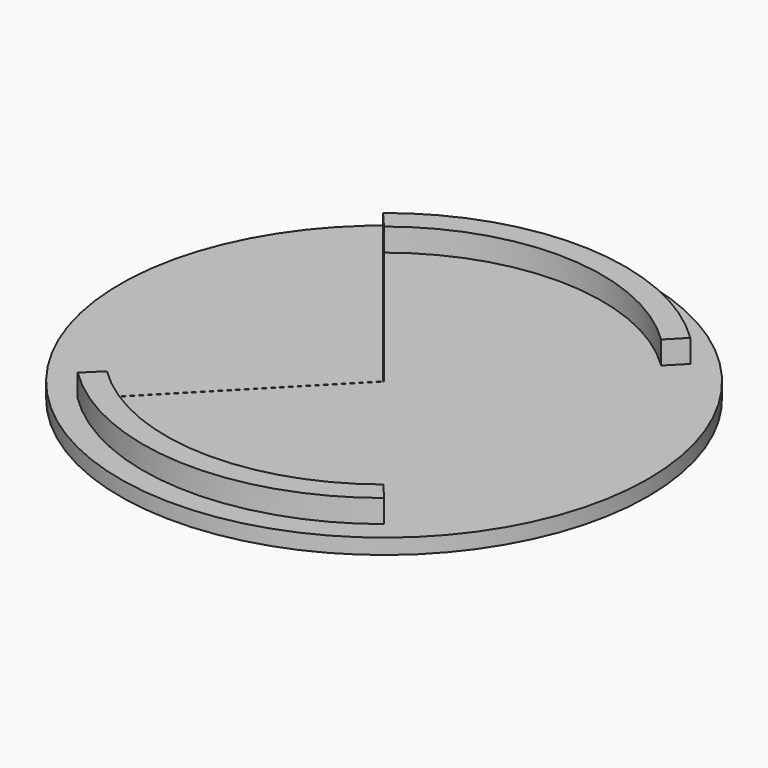
from build123d import *

# Parameters (mm, degrees)
F0_R     = 34.5
F1_DEPTH = 2
F2_DEPTH = 5


with BuildPart() as f1:
    # F0 (on Top) → F1 (new body)
    with BuildSketch(Plane.XY):
        Circle(F0_R)
        with BuildLine():
            ThreePointArc((21.9700469185, 22.573591615), (29.0198766187, 12.2513983297), (31.5, 0))
            ThreePointArc((31.5, 0), (28.3931659642, -13.6410456537), (19.685515776, -24.5912681379))
            ThreePointArc((19.685515776, -24.5912681379), (-1.5780097398, -31.46044954), (-22.0474442238, -22.498004427))
            ThreePointArc((-22.0474442238, -22.498004427), (-31.4627762399, 1.5309184432), (-19.7590431706, 24.5322280477))
            ThreePointArc((-19.7590431706, 24.5322280477), (1.4768881346, 31.4653587527), (21.9700469185, 22.573591615))
        make_face(mode=Mode.SUBTRACT)
        with BuildLine():
            Line((-17.8842235523, 22.1901903537), (-19.7590431706, 24.5322280477))
            ThreePointArc((-19.7590431706, 24.5322280477), (-31.4627762399, 1.5309184432), (-22.0474442238, -22.498004427))
            Line((-22.0474442238, -22.498004427), (-19.9513667108, -20.3517312868))
            ThreePointArc((-19.9513667108, -20.3517312868), (-28.466414366, 1.3832039418), (-17.8842235523, 22.1901903537))
        make_face()
        with BuildLine():
            Line((-19.9513667108, -20.3517312868), (-0.1004441037, -0.0254305007))
            Line((-0.1004441037, -0.0254305007), (-17.8842235523, 22.1901903537))
            ThreePointArc((-17.8842235523, 22.1901903537), (-28.466414366, 1.3832039418), (-19.9513667108, -20.3517312868))
        make_face()
        with BuildLine():
            Line((-17.8106981504, 22.2492478838), (-0.0340579507, 0.0425454287))
            Line((-0.0340579507, 0.0425454287), (19.8739694055, 20.4273184747))
            ThreePointArc((19.8739694055, 20.4273184747), (1.3762735051, 28.4667502753), (-17.8106981504, 22.2492478838))
        make_face()
        with BuildLine():
            Line((-0.0340579507, 0.0425454287), (0, 0))
            Line((0, 0), (28.5, 0))
            ThreePointArc((28.5, 0), (26.2550769191, 11.0869714517), (19.8739694055, 20.4273184747))
            Line((19.8739694055, 20.4273184747), (-0.0340579507, 0.0425454287))
        make_face()
        with BuildLine():
            Line((28.5, 0), (0, 0))
            Line((0, 0), (-0.066386153, -0.0679759294))
            Line((-0.066386153, -0.0679759294), (17.7369777294, -22.3080617945))
            ThreePointArc((17.7369777294, -22.3080617945), (25.6685981823, -12.3843880493), (28.5, 0))
        make_face()
        with BuildLine():
            Line((17.7369777294, -22.3080617945), (-0.066386153, -0.0679759294))
            Line((-0.066386153, -0.0679759294), (-19.9127039236, -20.3895616051))
            ThreePointArc((-19.9127039236, -20.3895616051), (-1.4503816264, -28.4630706906), (17.7369777294, -22.3080617945))
        make_face()
        with BuildLine():
            Line((31.5, 0), (28.5, 0))
            ThreePointArc((28.5, 0), (25.6685981823, -12.3843880493), (17.7369777294, -22.3080617945))
            Line((17.7369777294, -22.3080617945), (19.685515776, -24.5912681379))
            ThreePointArc((19.685515776, -24.5912681379), (28.3931659642, -13.6410456537), (31.5, 0))
        make_face()
        with BuildLine():
            ThreePointArc((19.8739694055, 20.4273184747), (26.2550769191, 11.0869714517), (28.5, 0))
            Line((28.5, 0), (31.5, 0))
            ThreePointArc((31.5, 0), (29.0198766187, 12.2513983297), (21.9700469185, 22.573591615))
            Line((21.9700469185, 22.573591615), (19.8739694055, 20.4273184747))
        make_face()
    extrude(amount=F1_DEPTH)

    # F0 (on Top) → F2 (join)
    with BuildSketch(Plane.XY):
        with BuildLine():
            ThreePointArc((-17.8106981504, 22.2492478838), (1.3762735051, 28.4667502753), (19.8739694055, 20.4273184747))
            Line((19.8739694055, 20.4273184747), (21.9700469185, 22.573591615))
            ThreePointArc((21.9700469185, 22.573591615), (1.4768881346, 31.4653587527), (-19.7590431706, 24.5322280477))
            Line((-19.7590431706, 24.5322280477), (-17.8106981504, 22.2492478838))
        make_face()
        with BuildLine():
            Line((19.685515776, -24.5912681379), (17.7369777294, -22.3080617945))
            ThreePointArc((17.7369777294, -22.3080617945), (-1.4503816264, -28.4630706906), (-19.9127039236, -20.3895616051))
            Line((-19.9127039236, -20.3895616051), (-22.0474442238, -22.498004427))
            ThreePointArc((-22.0474442238, -22.498004427), (-1.5780097398, -31.46044954), (19.685515776, -24.5912681379))
        make_face()
    extrude(amount=F2_DEPTH)


solid = f1.part
